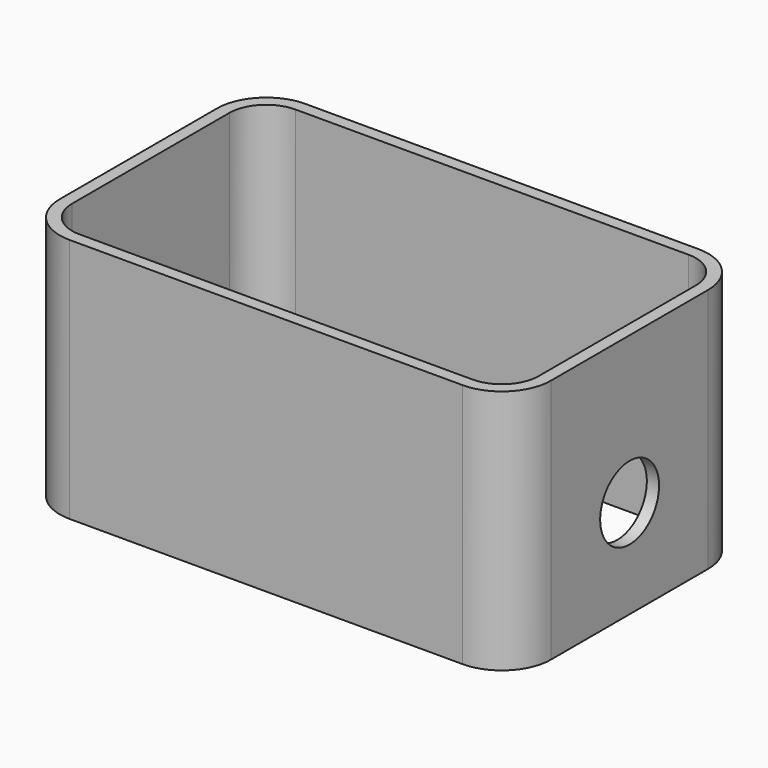
from build123d import *

# Parameters (mm, degrees)
F0_W     = 100
F0_H     = 60
F1_DEPTH = 50
F2_R     = 10
F3_T     = -2.5
F4_R     = 7.5
F5_DEPTH = 119.1


with BuildPart() as f1:
    # F0 (on Top) → F1 (new body)
    with BuildSketch(Plane.XY):
        Rectangle(F0_W, F0_H)
    extrude(amount=F1_DEPTH)

    # F2
    f2_edges = [f1.edges().sort_by_distance(p)[0] for p in [
        (50, -30, 25),
        (50, 30, 25),
        (-50, 30, 25),
        (-50, -30, 25),
    ]]
    fillet(f2_edges, radius=F2_R)

    # F3
    f3_openings = [f1.faces().sort_by_distance(p)[0] for p in [
        (0, 0, 50),
        (0, 0, 0),
    ]]
    offset(amount=F3_T, openings=f3_openings)

    # F4 (on face) → F5 (cut)
    with BuildSketch(Plane(origin=(-50, 0, 0), x_dir=(0, -1, 0), z_dir=(-1, 0, 0))):
        with Locations((0, 20)):
            Circle(F4_R)
    extrude(amount=-F5_DEPTH, mode=Mode.SUBTRACT)


solid = f1.part
